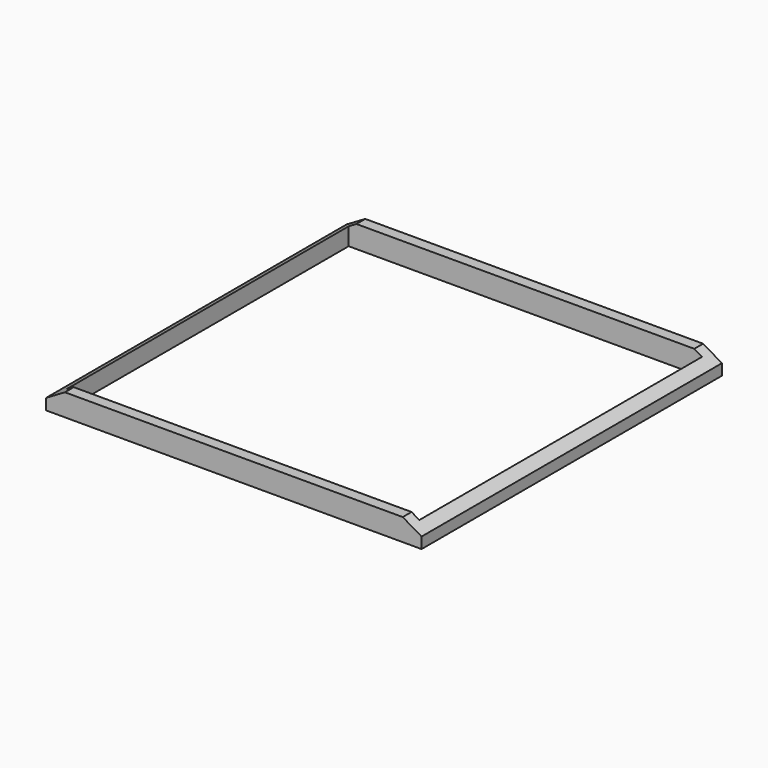
from build123d import *

# Parameters (mm, degrees)
F0_W     = 431.8
F0_H     = 431.8
F0_W_2   = 406.4
F0_H_2   = 406.4
F1_DEPTH = 25.4
F3_DEPTH = 431.8


with BuildPart() as f1:
    # F0 (on Top) → F1 (new body)
    with BuildSketch(Plane.XY):
        Rectangle(F0_W, F0_H)
        Rectangle(F0_W_2, F0_H_2, mode=Mode.SUBTRACT)
    extrude(amount=F1_DEPTH)

    # F2 (on face) → F3 (cut)
    with BuildSketch(Plane.XZ.offset(215.9)):
        Polygon((-215.9, 25.4), (-215.9, 12.7), (-194.250062, 25.4), align=None)
        Polygon((215.9, 25.4), (194.250062, 25.4), (215.9, 12.7), align=None)
    extrude(amount=-F3_DEPTH, mode=Mode.SUBTRACT)


solid = f1.part
